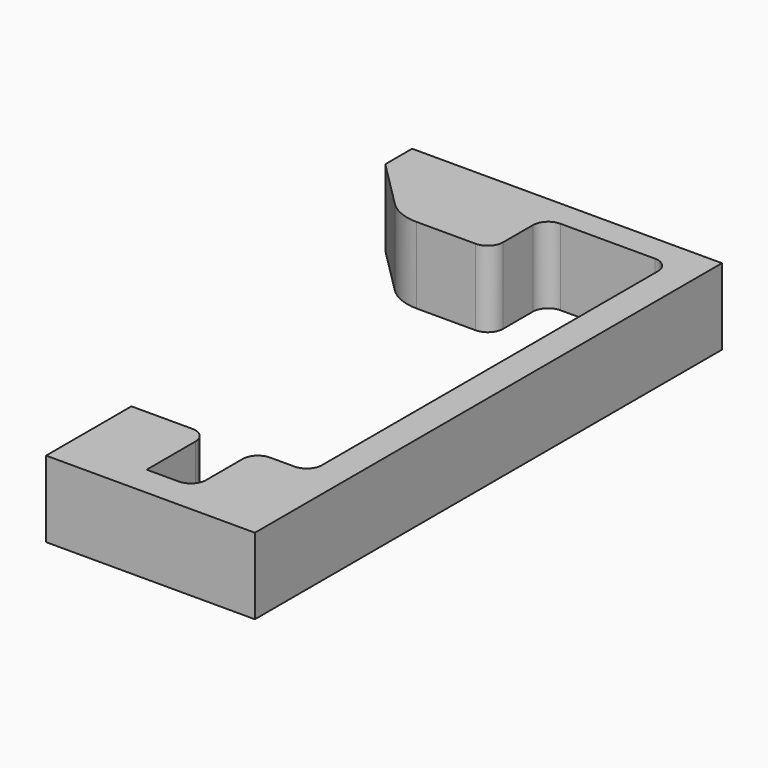
from build123d import *

# Parameters (mm, degrees)
PAD_DEPTH    = 5
FILLET_R     = 1
FILLET001_R  = 1
CHAMFER_SIZE = 4
FILLET002_R  = 3
FILLET003_R  = 1


with BuildPart() as part:
    # Sketch (on CopyPart__Feature) → Pad (new body)
    with BuildSketch(Plane(origin=(211.803644, 488.825915, 357.796851), x_dir=(-1, 0, 0), z_dir=(0, 0, 1))):
        Polygon((3.2, 28.8), (-0.4, 28.8), (-0.4, -0.75), (7.8, -0.75), (7.8, 3.7), (17.92547, 3.7), (17.92547, -2.5), (7.8, -2.5), (-2.4, -2.5), (-2.4, 35.8), (11.3, 35.8), (11.3, 28.8), (6.3, 28.8), (6.3, 33.8), (3.2, 33.8), align=None)
    extrude(amount=PAD_DEPTH)

    # Fillet
    fillet_edges = [part.edges().sort_by_distance(p)[0] for p in [
        (204.003644, 489.575915, 360.296851),
        (212.203644, 489.575915, 360.296851),
        (212.203644, 460.025915, 360.296851),
        (205.503644, 460.025915, 360.296851),
    ]]
    fillet(fillet_edges, radius=FILLET_R)

    # Fillet001
    fillet001_edges = [part.edges().sort_by_distance(p)[0] for p in [
        (208.603644, 460.025915, 360.296851),
        (208.603644, 455.025915, 360.296851),
    ]]
    fillet(fillet001_edges, radius=FILLET001_R)

    # Chamfer
    chamfer_edges = [part.edges().sort_by_distance(p)[0] for p in [
        (193.878174, 485.125915, 360.296851),
    ]]
    chamfer(chamfer_edges, length=CHAMFER_SIZE)

    # Fillet002
    fillet002_edges = [part.edges().sort_by_distance(p)[0] for p in [
        (197.878174, 485.125915, 360.296851),
    ]]
    fillet(fillet002_edges, radius=FILLET002_R)

    # Fillet003
    fillet003_edges = [part.edges().sort_by_distance(p)[0] for p in [
        (204.003644, 485.125915, 360.296851),
    ]]
    fillet(fillet003_edges, radius=FILLET003_R)


solid = part.part
